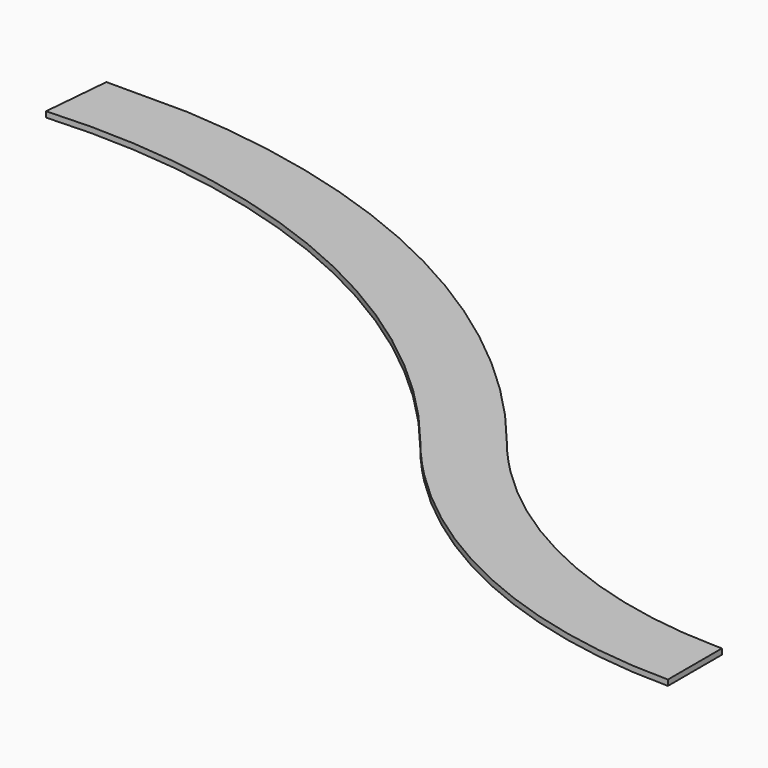
from build123d import *

# Parameters (mm, degrees)
F1_DEPTH = 25.4
F2_DEPTH = 25.4


with BuildPart() as f1:
    # F0 (on Top) → F1 (new body)
    with BuildSketch(Plane.XY):
        with BuildLine():
            Line((-1948.569128, 99.73551), (-2314.229534, 99.73551))
            Line((-2314.229534, 99.73551), (-2341.121483, -206.782896))
            ThreePointArc((-2341.121483, -206.782896), (-897.997266, -460.019732), (263.883218, -1352.63955))
            ThreePointArc((263.883218, -1352.63955), (346.753887, -1450.505393), (434.896385, -1543.65136))
            Line((434.896385, -1543.65136), (650.422532, -1328.125213))
            ThreePointArc((650.422532, -1328.125213), (573.839706, -1247.195111), (501.837321, -1162.164132))
            ThreePointArc((501.837321, -1162.164132), (-588.813834, -269.935802), (-1948.569128, 99.73551))
        make_face()
    extrude(amount=F1_DEPTH)

    # F0 (on Top) → F2 (join)
    with BuildSketch(Plane.XY):
        with BuildLine():
            ThreePointArc((2052.883256, -1919.404735), (1293.812382, -1760.957355), (650.422532, -1328.125213))
            Line((650.422532, -1328.125213), (434.896385, -1543.65136))
            ThreePointArc((434.896385, -1543.65136), (1188.88869, -2047.452911), (2078.283256, -2224.36449))
            Line((2078.283256, -2224.36449), (2078.283256, -1919.56449))
            ThreePointArc((2078.283256, -1919.56449), (2065.583004, -1919.524551), (2052.883256, -1919.404735))
        make_face()
    extrude(amount=F2_DEPTH)


solid = f1.part
